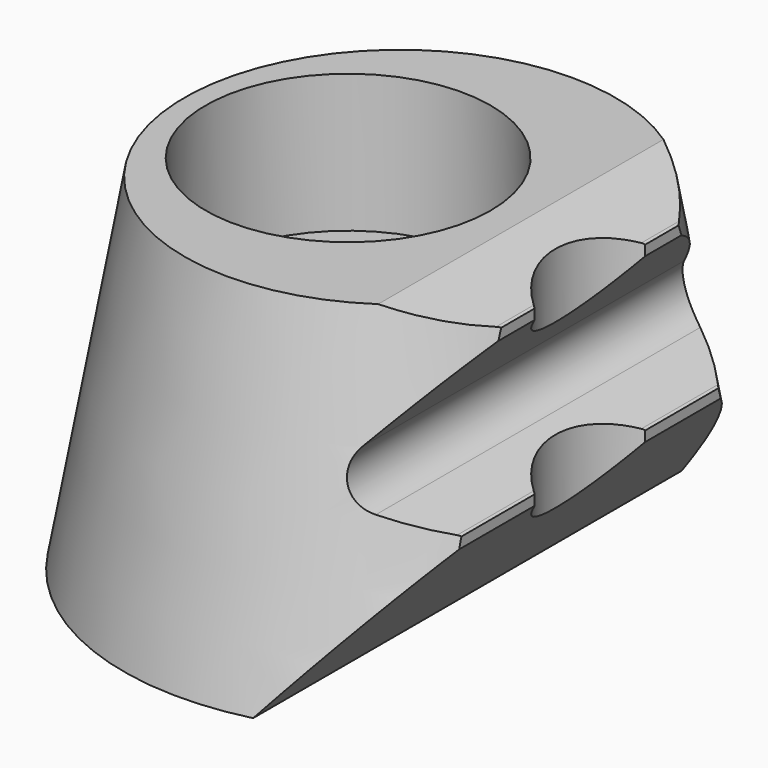
from build123d import *

# Parameters (mm, degrees)
F0_R           = 8
F1_DEPTH       = 10
F1_TAPER       = 10
F3_DEPTH       = 25
F5_D           = 4.4
F5_CBORE_D     = 8.25
F5_CBORE_DEPTH = 4
F7_D           = 5
F9_DEPTH       = 12.5
F10_R          = 1


with BuildPart() as f1:
    # F0 (on Top) → F1 (new body)
    with BuildSketch(Plane.XY):
        Circle(F0_R)
    extrude(amount=F1_DEPTH, taper=F1_TAPER)

    # F2 (on face) → F3 (cut)
    with BuildSketch(Plane(origin=(0, 0, 0), x_dir=(1, 0, 0), z_dir=(0, 0, -1))):
        with BuildLine():
            ThreePointArc((8, 0), (7.3484692283, 3.1622776602), (5.5, 5.8094750193))
            Line((5.5, 5.8094750193), (5.5, -5.8094750193))
            ThreePointArc((5.5, -5.8094750193), (7.3484692283, -3.1622776602), (8, 0))
        make_face()
    extrude(amount=-F3_DEPTH, mode=Mode.SUBTRACT)

    # F5 (through all)
    with Locations(Plane.XY.offset(10)):
        with Locations((-1.5, 0)):
            CounterBoreHole(F5_D / 2, F5_CBORE_D / 2, F5_CBORE_DEPTH)

    # F7 (through all)
    with Locations(Plane.XY.offset(10)):
        with Locations((7, 0)):
            Hole(F7_D / 2)

    # F8 (on Front) → F9 (cut, symmetric)
    with BuildSketch(Plane.XZ):
        with BuildLine():
            Line((10.4339603065, 10), (3.5, 10))
            Line((3.5, 10), (5.4315959713, 9.2969565618))
            ThreePointArc((5.4315959713, 9.2969565618), (5.5563771079, 9.1607818467), (5.5164008313, 8.9804605157))
            Line((5.5164008313, 8.9804605157), (2.6557981563, 5.5713270008))
            Line((2.6557981563, 5.5713270008), (5.4315959713, 4.5610192198))
            ThreePointArc((5.4315959713, 4.5610192198), (5.5563771079, 4.4248445046), (5.5164008313, 4.2445231737))
            Line((5.5164008313, 4.2445231737), (0.7803240521, -1.3997133427))
            Line((0.7803240521, -1.3997133427), (10.4339603065, -1.3997133427))
            Line((10.4339603065, -1.3997133427), (10.4339603065, 10))
        make_face()
    extrude(amount=F9_DEPTH, both=True, mode=Mode.SUBTRACT)

    # F10
    f10_edges = [f1.edges().sort_by_distance(p)[0] for p in [
        (2.655798, 0, 5.571327),
    ]]
    fillet(f10_edges, radius=F10_R)


solid = f1.part
